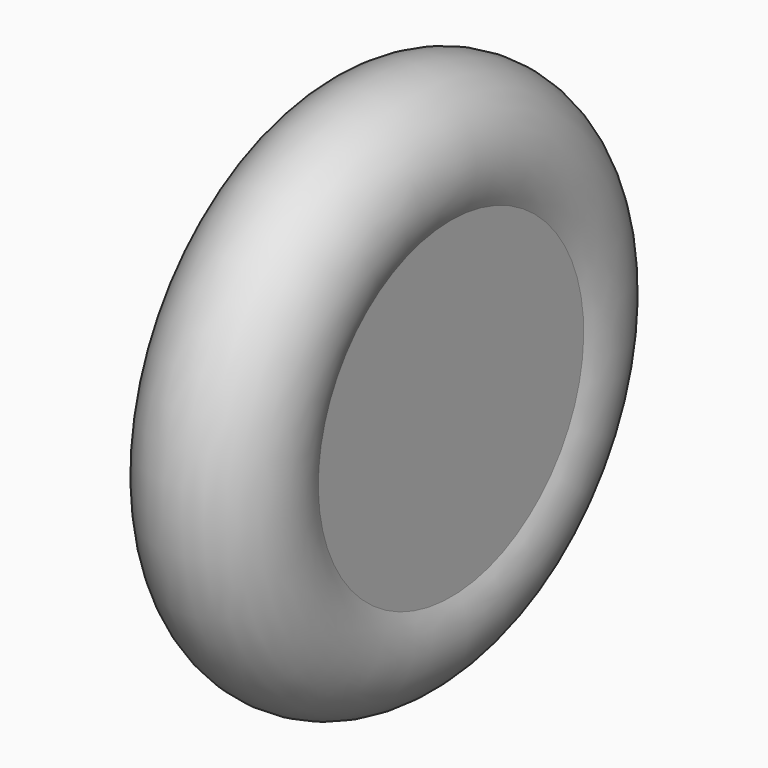
from build123d import *

# Parameters (mm, degrees)
F2_T = -2.54


with BuildPart() as f1:
    # F0 (on Front) → F1 (revolve)
    with BuildSketch(Plane.XZ):
        with BuildLine():
            Line((-76.7506361008, 0), (-1.6036669258, 0))
            Line((-1.6036669258, 0), (0, 0))
            Line((0, 0), (0, 74.9968662858))
            ThreePointArc((0, 74.9968662858), (-29.7460123313, 123.1761374752), (-61.0724762082, 76.0091990232))
            Line((-61.0724762082, 76.0091990232), (-59.0477921069, 34.5032028854))
            Line((-59.0477921069, 34.5032028854), (-85.3686705232, 66.6450411081))
            Line((-85.3686705232, 66.6450411081), (-76.7506361008, 0))
        make_face()
    revolve(axis=Axis((-38.3753180504, 0, 0), (1, 0, 0)))

    # F2
    f2_openings = [f1.faces().sort_by_distance(p)[0] for p in [
        (-81.059653, 0, -33.322521),
    ]]
    offset(amount=F2_T, openings=f2_openings, kind=Kind.INTERSECTION)


solid = f1.part
